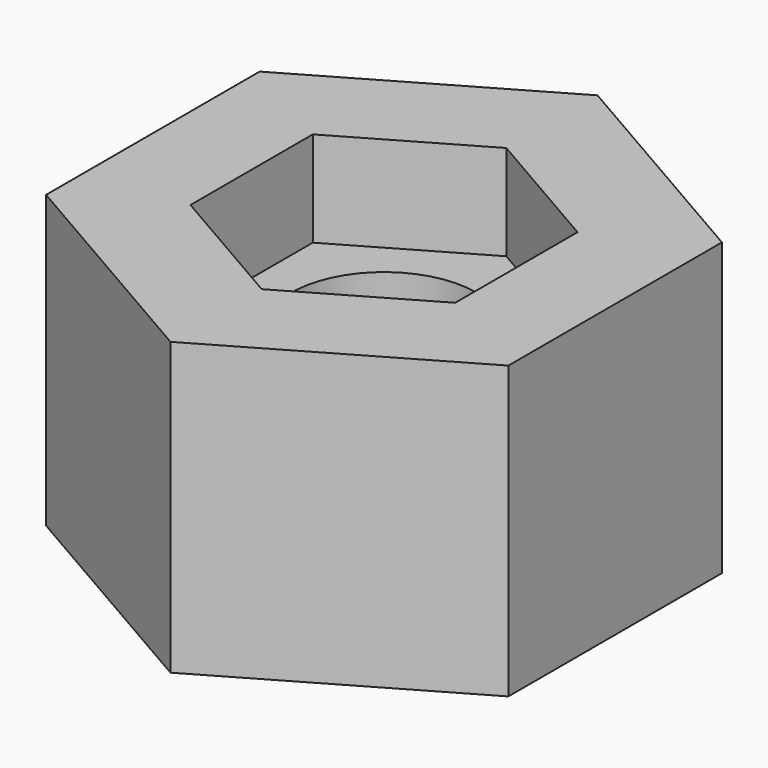
from build123d import *

# Parameters (mm, degrees)
F0_R     = 4.445
F1_DEPTH = 13.97
F2_R     = 9.525
F2_R_2   = 6.985
F3_DEPTH = 7.874
F5_DEPTH = 4.572
F6_R     = 0.762
F7_DEPTH = 5.08


with BuildPart() as f1:
    # F0 (on Top) → F1 (new body)
    with BuildSketch(Plane.XY):
        Polygon((11.0871, -6.4011401695), (11.0871, 6.4011401695), (0, 12.8022803391), (-11.0871, 6.4011401695), (-11.0871, -6.4011401695), (0, -12.8022803391), align=None)
        Circle(F0_R, mode=Mode.SUBTRACT)
    extrude(amount=F1_DEPTH)

    # F2 (on face) → F3 (cut)
    with BuildSketch(Plane(origin=(0, 0, 0), x_dir=(1, 0, 0), z_dir=(0, 0, -1))):
        Circle(F2_R)
        Circle(F2_R_2, mode=Mode.SUBTRACT)
    extrude(amount=-F3_DEPTH, mode=Mode.SUBTRACT)

    # F4 (on face) → F5 (cut)
    with BuildSketch(Plane.XY.offset(13.97)):
        Polygon((-6.35, 3.6661742094), (-6.35, -3.6661742094), (0, -7.3323484187), (6.35, -3.6661742094), (6.35, 3.6661742094), (0, 7.3323484187), align=None)
    extrude(amount=-F5_DEPTH, mode=Mode.SUBTRACT)

    # F6
    f6_edges = [f1.edges().sort_by_distance(p)[0] for p in [
        (-9.525, 0, 7.874),
        (-6.985, 0, 7.874),
    ]]
    fillet(f6_edges, radius=F6_R)

    # F7 (cut): a face of the model
    f7_faces = [f1.faces().sort_by_distance(p)[0] for p in [
        (-6.7874343653, 0, 0),
    ]]
    extrude(f7_faces, amount=-F7_DEPTH, mode=Mode.SUBTRACT)


solid = f1.part
